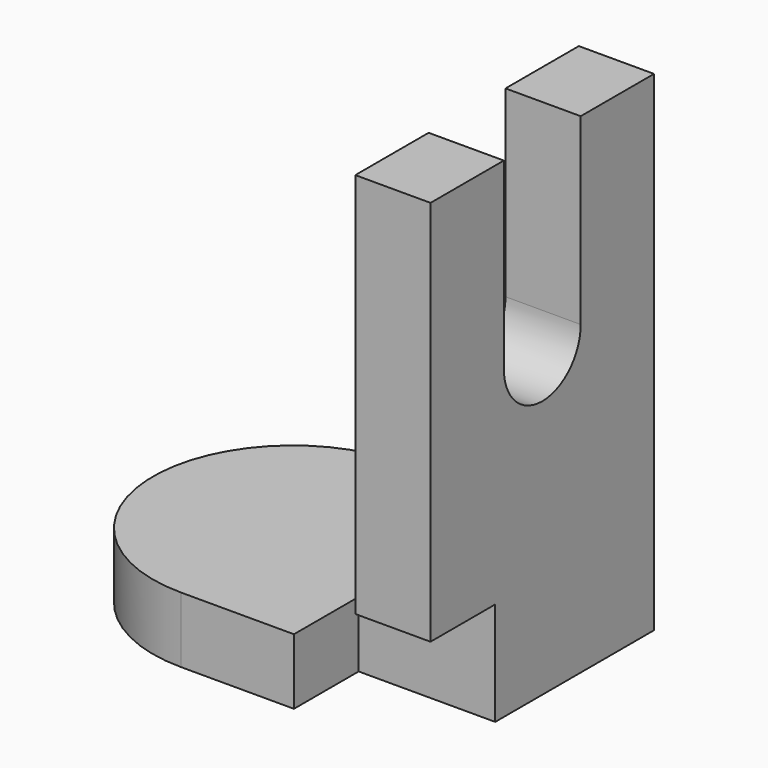
from build123d import *

# Parameters (mm, degrees)
F1_DEPTH = 12.7
F2_W     = 14.5472725853
F2_H     = 54.0411157981
F3_DEPTH = 82.042
F5_DEPTH = 25.4
F6_W     = 15.6459464915
F6_H     = 20.0112983584
F7_DEPTH = 26.416


with BuildPart() as f1:
    # F0 (on Top) → F1 (new body)
    with BuildSketch(Plane.XY):
        with BuildLine():
            Line((0, 27.020557899), (-48.259999603, 27.020557899))
            ThreePointArc((-48.259999603, 27.020557899), (-75.2805575021, 0), (-48.259999603, -27.020557899))
            Line((-48.259999603, -27.020557899), (0, -27.020557899))
            Line((0, -27.020557899), (0, 27.020557899))
        make_face()
    extrude(amount=F1_DEPTH)

    # F2 (on face) → F3 (join)
    with BuildSketch(Plane.XY.offset(12.7)):
        with Locations((-7.2736362927, 0)):
            Rectangle(F2_W, F2_H)
    extrude(amount=F3_DEPTH)

    # F4 (on face) → F5 (cut)
    with BuildSketch(Plane(origin=(-14.5472725853, 0, 0), x_dir=(0, -1, 0), z_dir=(-1, 0, 0))):
        with BuildLine():
            Line((-9.2913275192, 94.742), (-9.2913275192, 59.2682287097))
            ThreePointArc((-9.2913275192, 59.2682287097), (0, 49.9769011905), (9.2913275192, 59.2682287097))
            Line((9.2913275192, 59.2682287097), (9.2913275192, 94.742))
            Line((9.2913275192, 94.742), (-9.2913275192, 94.742))
        make_face()
    extrude(amount=-F5_DEPTH, mode=Mode.SUBTRACT)

    # F6 (on face) → F7 (cut)
    with BuildSketch(Plane.YZ):
        with Locations((-19.1975846533, 10.0056491792)):
            Rectangle(F6_W, F6_H)
    extrude(amount=-F7_DEPTH, mode=Mode.SUBTRACT)


solid = f1.part
